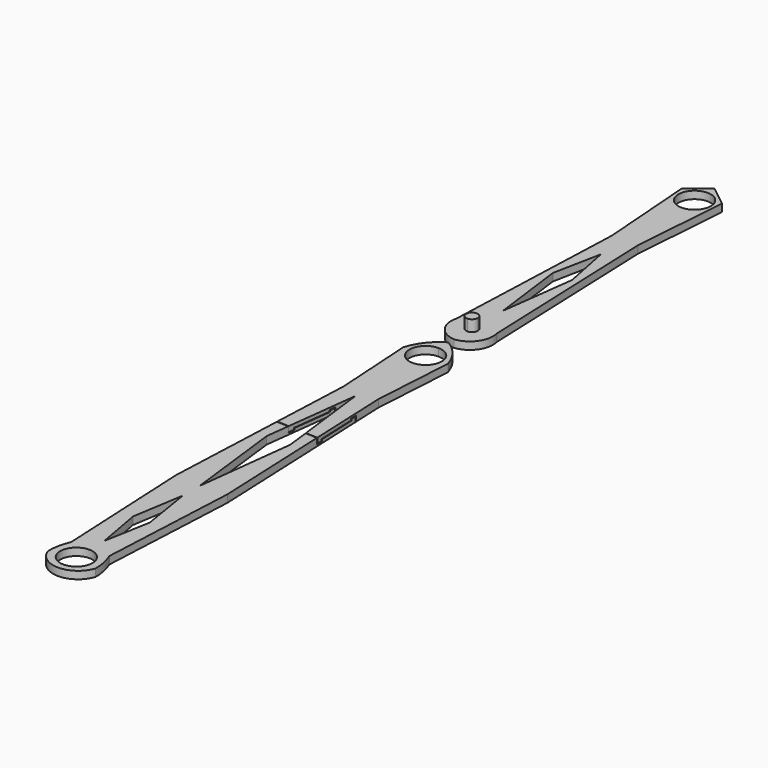
from build123d import *

# Parameters (mm, degrees)
F0_R       = 10.922
F1_DEPTH   = 5.08
F3_R       = 10.922
F4_DEPTH   = 5.08
F5_DEPTH   = 12.7
F1_FACE1_W = 134.9867132481
F1_FACE1_H = 5.08
F6_DEPTH   = 40.0849549569


with BuildPart() as f1:
    # F0 (on Top) → F1 (new body)
    with BuildSketch(Plane.XY):
        with BuildLine():
            ThreePointArc((15.1150114834, 0), (9.3757520306, 11.0647871917), (0, 19.278427586))
            ThreePointArc((0, 19.278427586), (-9.3757520306, 11.0647871917), (-15.1150114834, 0))
            Line((-15.1150114834, 0), (-11.728124693, -54.6044968069))
            Line((-11.728124693, -54.6044968069), (-17.4740906805, -189.4688606262))
            Line((-17.4740906805, -189.4688606262), (-12.8661198542, -283.6762070656))
            ThreePointArc((-12.8661198542, -283.6762070656), (-15.2657067928, -291.2982501834), (-16.0767073593, -299.2478311062))
            ThreePointArc((-16.0767073593, -299.2478311062), (0, -310.8648259444), (16.0767073593, -299.2478311062))
            ThreePointArc((16.0767073593, -299.2478311062), (15.2657067928, -291.2982501834), (12.8661198542, -283.6762070656))
            Line((12.8661198542, -283.6762070656), (17.4740906805, -189.4688606262))
            Line((17.4740906805, -189.4688606262), (11.728124693, -54.6044968069))
            Line((11.728124693, -54.6044968069), (15.1150114834, 0))
        make_face()
        with Locations((0, -295.4293489456)):
            Circle(F0_R, mode=Mode.SUBTRACT)
        Polygon((-5.6423097849, -240.4096722603), (0, -205.3996622562), (5.6423097849, -240.4096722603), (0, -271.7664837837), align=None, mode=Mode.SUBTRACT)
        Polygon((-7.9602571204, -124.4369074702), (0, -59.2878311872), (7.9602571204, -124.4369074702), (0, -191.1081522703), align=None, mode=Mode.SUBTRACT)
        with BuildLine():
            ThreePointArc((0, 10.922), (7.7230202641, 7.7230202641), (10.922, 0))
            ThreePointArc((10.922, 0), (7.7230202641, -7.7230202641), (0, -10.922))
            ThreePointArc((0, -10.922), (-10.922, 0), (0, 10.922))
        make_face(mode=Mode.SUBTRACT)
    extrude(amount=F1_DEPTH)

    # F2 (on face) + F1_face1 (on face) → F6 (cut, through all)
    with BuildSketch(Plane(origin=(-9.3846365842, 0.3998372965, 0), x_dir=(-0.0425669005, -0.9990936187, 0), z_dir=(-0.9990936187, 0.0425669005, 0))):
        Polygon((108.6390390992, 5.08), (108.5000261664, 5.08), (108.5000261664, 1.4986022143), (104.5833975077, 1.4986022143), (104.5833975077, 2.6502343826), (78.2581716776, 2.6502343826), (78.2581716776, 3.7448140793), (74.0887746215, 3.7448140793), (74.0887746215, 0), (74.304997921, 0), (74.4544714689, 0), (74.4544714689, 3.3619990572), (78.0077949166, 3.3619990572), (78.0077949166, 2.3651611991), (104.2522341013, 2.3651611991), (104.2522341013, 1.1519507971), (108.777731657, 1.1519507971), (108.777731657, 5.08), align=None)
    with BuildSketch(Plane(origin=(14.6011076868, -122.0366787165, 2.54), x_dir=(-0.0425669005, 0.9990936187, 0), z_dir=(0.9990936187, 0.0425669005, 0))):
        Rectangle(F1_FACE1_W, F1_FACE1_H)
    extrude(amount=-F6_DEPTH, dir=(-0.9990936187, 0.0425669005, 0), mode=Mode.SUBTRACT)


with BuildPart() as f4:
    # F3 (on Top) → F4 (new body)
    with BuildSketch(Plane.XY):
        with BuildLine():
            Line((-8.8296765462, 168.5318052769), (-13.6566273868, 43.1325063109))
            ThreePointArc((-13.6566273868, 43.1325063109), (-11.2673867399, 30.3300555363), (0, 23.7988065928))
            ThreePointArc((0, 23.7988065928), (11.2673867399, 30.3300555363), (13.6566273868, 43.1325063109))
            Line((13.6566273868, 43.1325063109), (8.8296765462, 168.5318052769))
            Line((8.8296765462, 168.5318052769), (13.6566273868, 233.5623651743))
            Line((13.6566273868, 233.5623651743), (0, 244.4007992744))
            Line((0, 244.4007992744), (-13.6566273868, 233.5623651743))
            Line((-13.6566273868, 233.5623651743), (-8.8296765462, 168.5318052769))
        make_face()
        with BuildLine():
            ThreePointArc((3.9116, 39.2141240993), (2.7659188853, 36.448205214), (0, 35.3025240993))
            ThreePointArc((0, 35.3025240993), (-3.9116, 39.2141240993), (0, 43.1257240993))
            ThreePointArc((0, 43.1257240993), (2.7659188853, 41.9800429846), (3.9116, 39.2141240993))
        make_face(mode=Mode.SUBTRACT)
        Polygon((6.5004709177, 115.7847344875), (0, 65.4596313834), (-6.5004709177, 115.7847344875), (0, 148.2781022787), align=None, mode=Mode.SUBTRACT)
        with Locations((0, 227.5302112103)):
            Circle(F3_R, mode=Mode.SUBTRACT)
    extrude(amount=F4_DEPTH)

    # F3 (on Top) → F5 (join)
    with BuildSketch(Plane.XY):
        with BuildLine():
            ThreePointArc((0, 43.1257240993), (-3.9116, 39.2141240993), (0, 35.3025240993))
            Line((0, 35.3025240993), (0, 43.1257240993))
        make_face()
        with BuildLine():
            Line((0, 43.1257240993), (0, 35.3025240993))
            ThreePointArc((0, 35.3025240993), (2.7659188853, 36.448205214), (3.9116, 39.2141240993))
            ThreePointArc((3.9116, 39.2141240993), (2.7659188853, 41.9800429846), (0, 43.1257240993))
        make_face()
    extrude(amount=F5_DEPTH)


solid = Compound([f1.part, f4.part])
